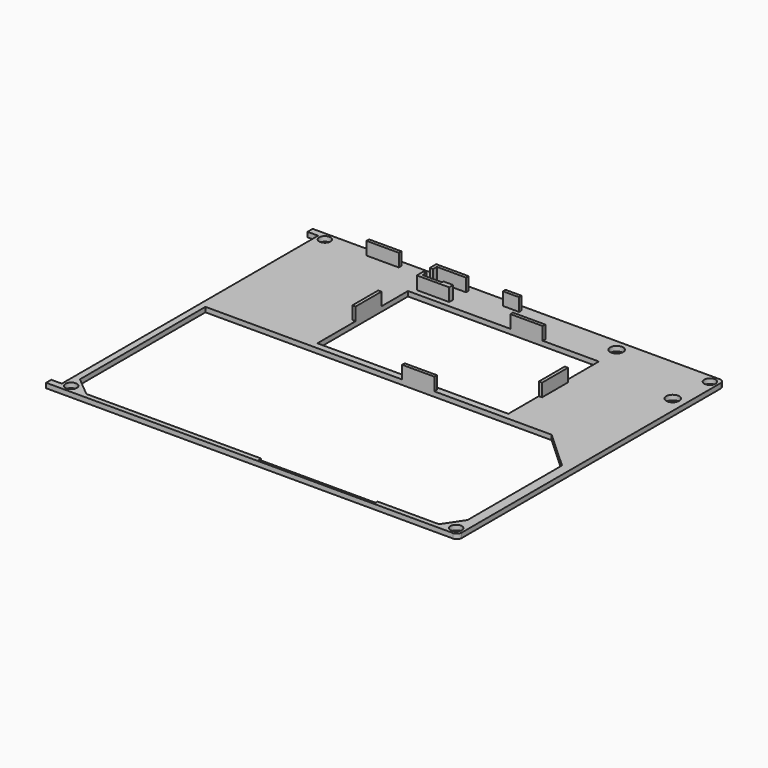
from build123d import *

# Parameters (mm, degrees)
F0_R     = 1.75
F0_W     = 59
F0_H     = 35
F0_R_2   = 2
F1_DEPTH = 1.5
F2_W     = 1
F2_H     = 10
F2_W_2   = 10
F2_H_2   = 1
F2_W_3   = 5
F3_DEPTH = 4


with BuildPart() as f1:
    # F0 (on Top) → F1 (new body)
    with BuildSketch(Plane.XY):
        with BuildLine():
            Line((-122.5, 0), (-1.5, 0))
            ThreePointArc((-1.5, 0), (-0.43934, 0.43934), (0, 1.5))
            Line((0, 1.5), (0, 101.5))
            ThreePointArc((0, 101.5), (-0.43934, 102.56066), (-1.5, 103))
            Line((-1.5, 103), (-122.5, 103))
            Line((-122.5, 103), (-127.25, 103))
            Line((-127.25, 103), (-127.25, 101))
            Line((-127.25, 101), (-124, 101))
            Line((-124, 101), (-124, 2))
            Line((-124, 2), (-127.25, 2))
            Line((-127.25, 2), (-127.25, 0))
            Line((-127.25, 0), (-122.5, 0))
        make_face()
        with Locations((-121.5, 2.5)):
            Circle(F0_R, mode=Mode.SUBTRACT)
        with Locations((-2.5, 2.5)):
            Circle(F0_R, mode=Mode.SUBTRACT)
        Polygon((-3, 7.5), (-7, 1.5), (-26, 1.5), (-26, 0.7), (-62, 0.7), (-62, 1.5), (-116, 1.5), (-122, 6.5), (-122, 55), (-30, 55), (-15, 55), (-3, 44), align=None, mode=Mode.SUBTRACT)
        with Locations((-121.5, 100.5)):
            Circle(F0_R, mode=Mode.SUBTRACT)
        with Locations((-59.5, 74.5)):
            Rectangle(F0_W, F0_H, mode=Mode.SUBTRACT)
        with Locations((-4, 88)):
            Circle(F0_R_2, mode=Mode.SUBTRACT)
        with Locations((-30.5, 99.5)):
            Circle(F0_R_2, mode=Mode.SUBTRACT)
        with Locations((-2.5, 100.5)):
            Circle(F0_R, mode=Mode.SUBTRACT)
    extrude(amount=F1_DEPTH)

    # F2 (on face) → F3 (join)
    with BuildSketch(Plane.XY.offset(1.5)):
        Polygon((-77.633427, 101.2), (-87.633427, 101.2), (-87.633427, 100.2), (-87.633427, 98.7), (-86.633427, 98.7), (-86.633427, 100.2), (-77.633427, 100.2), align=None)
        Polygon((-86.633427, 96.2), (-87.633427, 96.2), (-87.633427, 94.7), (-87.633427, 93.7), (-77.633427, 93.7), (-77.633427, 94.7), (-77.633427, 95.24902), (-80.633427, 95.24902), (-80.633427, 94.7), (-86.633427, 94.7), align=None)
        with Locations((-89.5, 76.759284)):
            Rectangle(F2_W, F2_H)
        with Locations((-56.212551, 55.5)):
            Rectangle(F2_W_2, F2_H_2)
        with Locations((-29.5, 73.798885)):
            Rectangle(F2_W, F2_H)
        with Locations((-52.37203, 92.5)):
            Rectangle(F2_W_2, F2_H_2)
        with Locations((-103.39882, 100.7)):
            Rectangle(F2_W_2, F2_H_2)
        with Locations((-63.727661, 100.7)):
            Rectangle(F2_W_3, F2_H_2)
    extrude(amount=F3_DEPTH)


solid = f1.part
